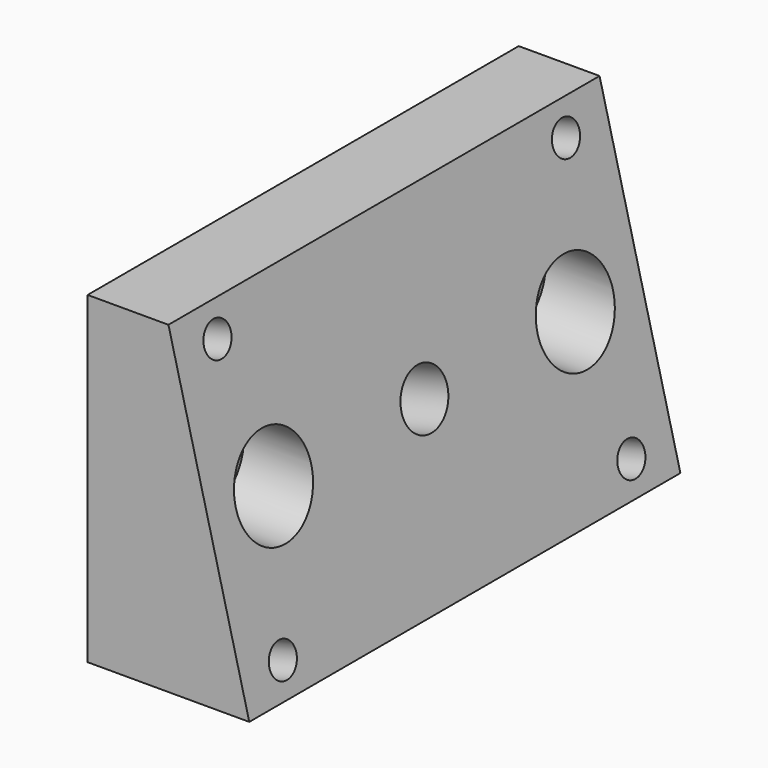
from build123d import *

# Parameters (mm, degrees)
F0_W           = 63.5
F0_H           = 38.1
F1_DEPTH       = 19.05
F3_D           = 7.14375
F3_CBORE_D     = 11.1125
F3_CBORE_DEPTH = 12.7
F5_DEPTH       = 63.501
F7_D           = 6.7564
F9_D           = 3.96875


with BuildPart() as f1:
    # F0 (on Right) → F1 (new body)
    with BuildSketch(Plane.YZ):
        with Locations((31.75, 19.05)):
            Rectangle(F0_W, F0_H)
    extrude(amount=F1_DEPTH)

    # F3 (through all)
    with Locations(Plane.YZ.offset(19.05)):
        with Locations((9.525, 19.05), (53.975, 19.05)):
            CounterBoreHole(F3_D / 2, F3_CBORE_D / 2, F3_CBORE_DEPTH)

    # F4 (on face) → F5 (cut, through all)
    with BuildSketch(Plane.XZ):
        Polygon((19.05, 38.1), (9.525, 38.1), (19.05, 0), align=None)
    extrude(amount=-F5_DEPTH, mode=Mode.SUBTRACT)

    # F7 (through all)
    with Locations(Plane(origin=(17.929412, 0, 4.482353), x_dir=(0, 1, 0), z_dir=(0.970143, 0, 0.242536))):
        with Locations((31.75, 15.015987)):
            Hole(F7_D / 2)

    # F9 (through all)
    with Locations(Plane(origin=(17.929412, 0, 4.482353), x_dir=(0, 1, 0), z_dir=(0.970143, 0, 0.242536))):
        with Locations((6.081646, 30.890987), (57.418354, 30.890987), (57.418354, -0.859013), (6.081646, -0.859013)):
            Hole(F9_D / 2)


solid = f1.part
